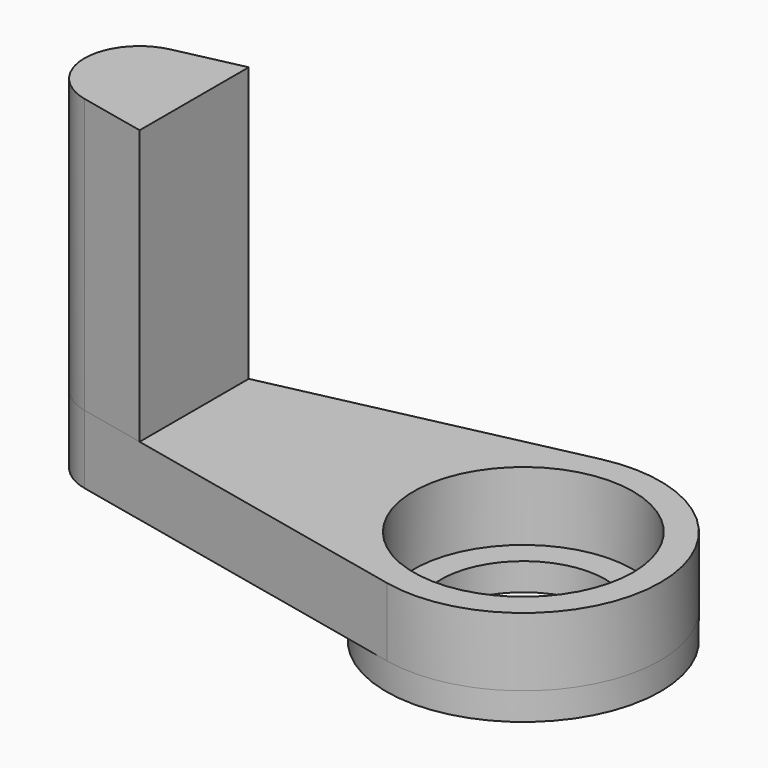
from build123d import *

# Parameters (mm, degrees)
SKETCH_R      = 8
PAD_DEPTH     = 5
PAD001_DEPTH  = 20
SKETCH002_R   = 10
SKETCH002_R_2 = 6
PAD002_DEPTH  = 2


with BuildPart() as part:
    # Sketch → Pad (new body)
    with BuildSketch(Plane.XY):
        with BuildLine():
            ThreePointArc((-2.142857, -9.76771), (10, 0), (-2.142857, 9.76771))
            Line((-28.857143, 3.907084), (-2.142857, 9.76771))
            ThreePointArc((-28.857143, 3.907084), (-32, 0), (-28.857143, -3.907084))
            Line((-2.142857, -9.76771), (-28.857143, -3.907084))
        make_face()
        Circle(SKETCH_R, mode=Mode.SUBTRACT)
    extrude(amount=PAD_DEPTH)

    # Sketch001 (on Face7 of Pad) → Pad001 (join)
    with BuildSketch(Plane.XY.offset(5)):
        with BuildLine():
            ThreePointArc((-28.857143, 3.907084), (-32, -1.3e-05), (-28.857117, -3.90709))
            Line((-24, -4.972619), (-28.857117, -3.90709))
            Line((-24, -4.972619), (-24, 4.972653))
            Line((-24, 4.972653), (-28.857143, 3.907084))
        make_face()
    extrude(amount=PAD001_DEPTH)

    # Sketch002 → Pad002 (join)
    with BuildSketch(Plane(origin=(0, 0, 0), x_dir=(1, 0, 0), z_dir=(0, 0, -1))):
        Circle(SKETCH002_R)
        Circle(SKETCH002_R_2, mode=Mode.SUBTRACT)
    extrude(amount=PAD002_DEPTH)


solid = part.part
